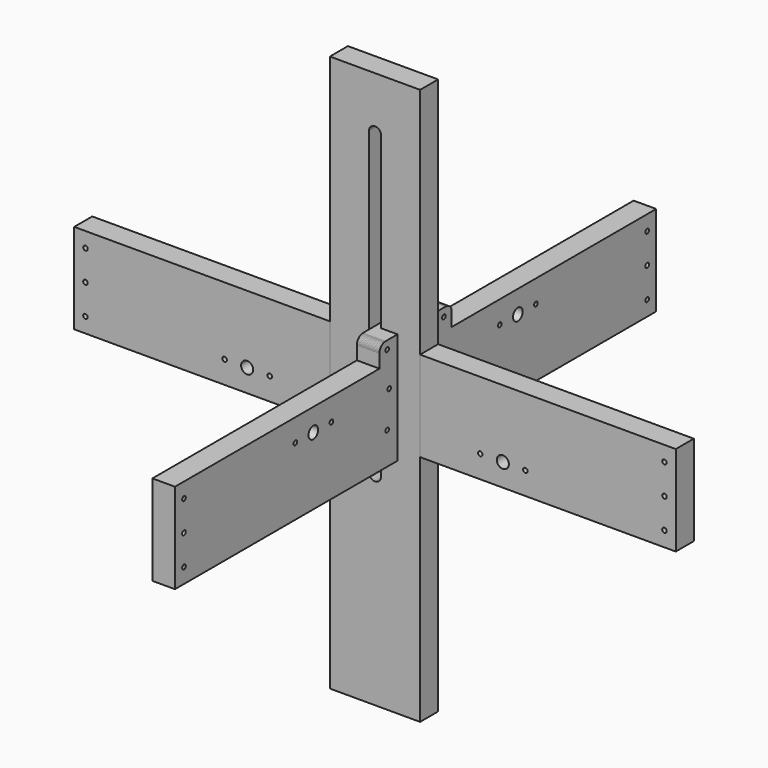
from build123d import *

# Parameters (mm, degrees)
F0_W     = 400
F0_H     = 60
F0_R     = 1.5
F0_R_2   = 4
F0_R_3   = 1.498627
F0_R_4   = 10.950965
F1_DEPTH = 15
F2_R     = 1.5
F2_R_2   = 1.498105
F2_R_3   = 4
F2_R_4   = 12
F3_DEPTH = 15
F4_W     = 60
F4_H     = 370
F5_DEPTH = 15


with BuildPart() as f1:
    # F0 (on Front) → F1 (new body)
    with BuildSketch(Plane.XZ):
        Rectangle(F0_W, F0_H)
        with Locations((-192.5, -20)):
            Circle(F0_R, mode=Mode.SUBTRACT)
        with Locations((-85.000001, -15)):
            Circle(F0_R_2, mode=Mode.SUBTRACT)
        with Locations((-69.998626, -15.00179)):
            Circle(F0_R_3, mode=Mode.SUBTRACT)
        with Locations((-100, -14.999999)):
            Circle(F0_R, mode=Mode.SUBTRACT)
        with Locations((0, -15)):
            Circle(F0_R_4, mode=Mode.SUBTRACT)
        with Locations((85, -15)):
            Circle(F0_R_2, mode=Mode.SUBTRACT)
        with Locations((192.5, -20)):
            Circle(F0_R, mode=Mode.SUBTRACT)
        with Locations((70, -15)):
            Circle(F0_R, mode=Mode.SUBTRACT)
        with Locations((100, -15)):
            Circle(F0_R, mode=Mode.SUBTRACT)
        with Locations((-192.5, 1e-06)):
            Circle(F0_R, mode=Mode.SUBTRACT)
        with Locations((-192.5, 20)):
            Circle(F0_R, mode=Mode.SUBTRACT)
        with Locations((192.5, 1e-06)):
            Circle(F0_R, mode=Mode.SUBTRACT)
        with Locations((192.5, 20)):
            Circle(F0_R, mode=Mode.SUBTRACT)
    extrude(amount=F1_DEPTH)


with BuildPart() as f3:
    # F2 (on Right) → F3 (new body)
    with BuildSketch(Plane.YZ):
        Polygon((-30, 32), (-30, 23), (-200, 23), (-200, -37), (200, -37), (200, 23), (30, 23), (30, 32), (29.957224, 32.652631), (29.829629, 33.294095), (29.619397, 33.913417), (29.330127, 34.5), (28.966766, 35.043807), (28.535534, 35.535533), (28.043807, 35.966766), (27.5, 36.330127), (26.913417, 36.619397), (26.294095, 36.829629), (25.652631, 36.957224), (25, 37), (-25, 37), (-25.652631, 36.957224), (-26.294096, 36.829629), (-26.913418, 36.619397), (-27.5, 36.330127), (-28.043808, 35.966766), (-28.535534, 35.535533), (-28.966767, 35.043807), (-29.330127, 34.5), (-29.619398, 33.913417), (-29.82963, 33.294095), (-29.957225, 32.652631), align=None)
        Polygon((-193.799038, -26.25), (-193.560661, -25.93934), (-193.25, -25.700962), (-192.888229, -25.551112), (-192.5, -25.5), (-192.111772, -25.551112), (-191.75, -25.700962), (-191.43934, -25.93934), (-191.200962, -26.25), (-191.051112, -26.611772), (-191, -27), (-191.051112, -27.388229), (-191.200962, -27.75), (-191.43934, -28.060661), (-191.75, -28.299039), (-192.111772, -28.448889), (-192.5, -28.5), (-192.888229, -28.448889), (-193.25, -28.299039), (-193.560661, -28.060661), (-193.799038, -27.75), (-193.948889, -27.388229), (-194, -27), (-193.948889, -26.611772), align=None, mode=Mode.SUBTRACT)
        with Locations((-192.5, -7)):
            Circle(F2_R, mode=Mode.SUBTRACT)
        Polygon((-24.849038, -16.3), (-24.998889, -15.938229), (-25.05, -15.55), (-24.998889, -15.161772), (-24.849038, -14.8), (-24.610661, -14.48934), (-24.3, -14.250962), (-23.938229, -14.101112), (-23.55, -14.05), (-23.161772, -14.101112), (-22.8, -14.250962), (-22.48934, -14.48934), (-22.250962, -14.8), (-22.101112, -15.161772), (-22.05, -15.55), (-22.101112, -15.938229), (-22.250962, -16.3), (-22.48934, -16.610661), (-22.8, -16.849039), (-23.161772, -16.998889), (-23.55, -17.05), (-23.938229, -16.998889), (-24.3, -16.849039), (-24.610661, -16.610661), align=None, mode=Mode.SUBTRACT)
        Polygon((191.051111, -27.388229), (191, -27), (191.051111, -26.611772), (191.200962, -26.25), (191.439339, -25.93934), (191.75, -25.700962), (192.111771, -25.551112), (192.5, -25.5), (192.888228, -25.551112), (193.25, -25.700962), (193.56066, -25.93934), (193.799038, -26.25), (193.948888, -26.611772), (194, -27), (193.948888, -27.388229), (193.799038, -27.75), (193.56066, -28.060661), (193.25, -28.299039), (192.888228, -28.448889), (192.5, -28.5), (192.111771, -28.448889), (191.75, -28.299039), (191.439339, -28.060661), (191.200962, -27.75), align=None, mode=Mode.SUBTRACT)
        Polygon((-0.75, -12.621273), (-0.388229, -12.471422), (0, -12.420311), (0.388228, -12.471422), (0.75, -12.621273), (1.06066, -12.85965), (1.299038, -13.170311), (1.448888, -13.532082), (1.5, -13.920311), (1.448888, -14.308539), (1.299038, -14.670311), (1.06066, -14.980971), (0.75, -15.219349), (0.388228, -15.369199), (0, -15.420311), (-0.388229, -15.369199), (-0.75, -15.219349), (-1.060661, -14.980971), (-1.299038, -14.670311), (-1.448889, -14.308539), (-1.5, -13.920311), (-1.448889, -13.532082), (-1.299038, -13.170311), (-1.060661, -12.85965), align=None, mode=Mode.SUBTRACT)
        Polygon((23.55, -14.05), (23.938228, -14.101112), (24.3, -14.250962), (24.61066, -14.48934), (24.849038, -14.8), (24.998888, -15.161772), (25.05, -15.55), (24.998888, -15.938229), (24.849038, -16.3), (24.61066, -16.610661), (24.3, -16.849039), (23.938228, -16.998889), (23.55, -17.05), (23.161771, -16.998889), (22.8, -16.849039), (22.489339, -16.610661), (22.250962, -16.3), (22.101111, -15.938229), (22.05, -15.55), (22.101111, -15.161772), (22.250962, -14.8), (22.489339, -14.48934), (22.8, -14.250962), (23.161771, -14.101112), align=None, mode=Mode.SUBTRACT)
        with Locations((192.499351, -6.995073)):
            Circle(F2_R_2, mode=Mode.SUBTRACT)
        Polygon((-191.200962, 12.25), (-191.43934, 11.939339), (-191.75, 11.700961), (-192.111772, 11.551111), (-192.5, 11.5), (-192.888229, 11.551111), (-193.25, 11.700961), (-193.560661, 11.939339), (-193.799038, 12.25), (-193.948889, 12.611771), (-194, 13), (-193.948889, 13.388228), (-193.799038, 13.75), (-193.560661, 14.06066), (-193.25, 14.299038), (-192.888229, 14.448888), (-192.5, 14.5), (-192.111772, 14.448888), (-191.75, 14.299038), (-191.43934, 14.06066), (-191.200962, 13.75), (-191.051112, 13.388228), (-191, 13), (-191.051112, 12.611771), align=None, mode=Mode.SUBTRACT)
        Polygon((-101.448889, 8.388228), (-101.299038, 8.75), (-101.060661, 9.06066), (-100.75, 9.299038), (-100.388229, 9.448888), (-100, 9.5), (-99.611772, 9.448888), (-99.25, 9.299038), (-98.93934, 9.06066), (-98.700962, 8.75), (-98.551112, 8.388228), (-98.5, 8), (-98.551112, 7.611771), (-98.700962, 7.25), (-98.93934, 6.939339), (-99.25, 6.700961), (-99.611772, 6.551111), (-100, 6.5), (-100.388229, 6.551111), (-100.75, 6.700961), (-101.060661, 6.939339), (-101.299038, 7.25), (-101.448889, 7.611771), (-101.5, 8), align=None, mode=Mode.SUBTRACT)
        with Locations((-85.000001, 8)):
            Circle(F2_R_3, mode=Mode.SUBTRACT)
        Polygon((-71.448889, 7.611771), (-71.5, 8), (-71.448889, 8.388228), (-71.299038, 8.75), (-71.060661, 9.06066), (-70.75, 9.299038), (-70.388229, 9.448888), (-70, 9.5), (-69.611772, 9.448888), (-69.25, 9.299038), (-68.93934, 9.06066), (-68.700962, 8.75), (-68.551112, 8.388228), (-68.5, 8), (-68.551112, 7.611771), (-68.700962, 7.25), (-68.93934, 6.939339), (-69.25, 6.700961), (-69.611772, 6.551111), (-70, 6.5), (-70.388229, 6.551111), (-70.75, 6.700961), (-71.060661, 6.939339), (-71.299038, 7.25), align=None, mode=Mode.SUBTRACT)
        Polygon((-23.219349, 8.75), (-22.980971, 9.06066), (-22.670311, 9.299038), (-22.308539, 9.448888), (-21.920311, 9.5), (-21.532082, 9.448888), (-21.170311, 9.299038), (-20.85965, 9.06066), (-20.621272, 8.75), (-20.471422, 8.388228), (-20.420311, 8), (-20.471422, 7.611771), (-20.621272, 7.25), (-20.85965, 6.939339), (-21.170311, 6.700961), (-21.532082, 6.551111), (-21.920311, 6.5), (-22.308539, 6.551111), (-22.670311, 6.700961), (-22.980971, 6.939339), (-23.219349, 7.25), (-23.369199, 7.611771), (-23.420311, 8), (-23.369199, 8.388228), align=None, mode=Mode.SUBTRACT)
        Polygon((-22.05, 31.55), (-22.101112, 31.161771), (-22.250962, 30.8), (-22.48934, 30.489339), (-22.8, 30.250961), (-23.161772, 30.101111), (-23.55, 30.05), (-23.938229, 30.101111), (-24.3, 30.250961), (-24.610661, 30.489339), (-24.849038, 30.8), (-24.998889, 31.161771), (-25.05, 31.55), (-24.998889, 31.938228), (-24.849038, 32.3), (-24.610661, 32.61066), (-24.3, 32.849038), (-23.938229, 32.998888), (-23.55, 33.05), (-23.161772, 32.998888), (-22.8, 32.849038), (-22.48934, 32.61066), (-22.250962, 32.3), (-22.101112, 31.938228), align=None, mode=Mode.SUBTRACT)
        with Locations((0, 7.999999)):
            Circle(F2_R_4, mode=Mode.SUBTRACT)
        Polygon((20.85965, 9.06066), (21.17031, 9.299038), (21.532081, 9.448888), (21.92031, 9.5), (22.308538, 9.448888), (22.67031, 9.299038), (22.98097, 9.06066), (23.219348, 8.75), (23.369199, 8.388228), (23.42031, 8), (23.369199, 7.611771), (23.219348, 7.25), (22.98097, 6.939339), (22.67031, 6.700961), (22.308538, 6.551111), (21.92031, 6.5), (21.532081, 6.551111), (21.17031, 6.700961), (20.85965, 6.939339), (20.621272, 7.25), (20.471421, 7.611771), (20.42031, 8), (20.471421, 8.388228), (20.621272, 8.75), align=None, mode=Mode.SUBTRACT)
        Polygon((70.75, 6.700961), (70.388228, 6.551111), (70, 6.5), (69.611771, 6.551111), (69.25, 6.700961), (68.939339, 6.939339), (68.700962, 7.25), (68.551111, 7.611771), (68.5, 8), (68.551111, 8.388228), (68.700962, 8.75), (68.939339, 9.06066), (69.25, 9.299038), (69.611771, 9.448888), (70, 9.5), (70.388228, 9.448888), (70.75, 9.299038), (71.06066, 9.06066), (71.299038, 8.75), (71.448888, 8.388228), (71.5, 8), (71.448888, 7.611771), (71.299038, 7.25), (71.06066, 6.939339), align=None, mode=Mode.SUBTRACT)
        with Locations((85, 8)):
            Circle(F2_R_3, mode=Mode.SUBTRACT)
        Polygon((101.448888, 8.388228), (101.5, 8), (101.448888, 7.611771), (101.299038, 7.25), (101.06066, 6.939339), (100.75, 6.700961), (100.388228, 6.551111), (100, 6.5), (99.611771, 6.551111), (99.25, 6.700961), (98.939339, 6.939339), (98.700962, 7.25), (98.551111, 7.611771), (98.5, 8), (98.551111, 8.388228), (98.700962, 8.75), (98.939339, 9.06066), (99.25, 9.299038), (99.611771, 9.448888), (100, 9.5), (100.388228, 9.448888), (100.75, 9.299038), (101.06066, 9.06066), (101.299038, 8.75), align=None, mode=Mode.SUBTRACT)
        Polygon((191.75, 14.299038), (192.111771, 14.448888), (192.5, 14.5), (192.888228, 14.448888), (193.25, 14.299038), (193.56066, 14.06066), (193.799038, 13.75), (193.948888, 13.388228), (194, 13), (193.948888, 12.611771), (193.799038, 12.25), (193.56066, 11.939339), (193.25, 11.700961), (192.888228, 11.551111), (192.5, 11.5), (192.111771, 11.551111), (191.75, 11.700961), (191.439339, 11.939339), (191.200962, 12.25), (191.051111, 12.611771), (191, 13), (191.051111, 13.388228), (191.200962, 13.75), (191.439339, 14.06066), align=None, mode=Mode.SUBTRACT)
        Polygon((-1.060661, 28.85965), (-1.299038, 29.17031), (-1.448889, 29.532081), (-1.5, 29.92031), (-1.448889, 30.308538), (-1.299038, 30.67031), (-1.060661, 30.98097), (-0.75, 31.219348), (-0.388229, 31.369199), (0, 31.42031), (0.388228, 31.369199), (0.75, 31.219348), (1.06066, 30.98097), (1.299038, 30.67031), (1.448888, 30.308538), (1.5, 29.92031), (1.448888, 29.532081), (1.299038, 29.17031), (1.06066, 28.85965), (0.75, 28.621272), (0.388228, 28.471421), (0, 28.42031), (-0.388229, 28.471421), (-0.75, 28.621272), align=None, mode=Mode.SUBTRACT)
        Polygon((24.61066, 30.489339), (24.3, 30.250961), (23.938228, 30.101111), (23.55, 30.05), (23.161771, 30.101111), (22.8, 30.250961), (22.489339, 30.489339), (22.250962, 30.8), (22.101111, 31.161771), (22.05, 31.55), (22.101111, 31.938228), (22.250962, 32.3), (22.489339, 32.61066), (22.8, 32.849038), (23.161771, 32.998888), (23.55, 33.05), (23.938228, 32.998888), (24.3, 32.849038), (24.61066, 32.61066), (24.849038, 32.3), (24.998888, 31.938228), (25.05, 31.55), (24.998888, 31.161771), (24.849038, 30.8), align=None, mode=Mode.SUBTRACT)
    extrude(amount=F3_DEPTH)


with BuildPart() as f5:
    # F4 (on Front) → F5 (new body)
    with BuildSketch(Plane.XZ):
        Rectangle(F4_W, F4_H)
        Polygon((4, -50), (3.863703, -51.035276), (3.464102, -52), (2.828427, -52.828427), (2, -53.464101), (1.035276, -53.863703), (0, -54), (-1.035276, -53.863703), (-2, -53.464101), (-2.828427, -52.828427), (-3.464102, -52), (-3.863703, -51.035276), (-4, -50), (-4, 150), (-3.863703, 151.035276), (-3.464102, 152), (-2.828427, 152.828427), (-2, 153.464102), (-1.035276, 153.863703), (0, 154), (1.035276, 153.863703), (2, 153.464102), (2.828427, 152.828427), (3.464102, 152), (3.863703, 151.035276), (4, 150), align=None, mode=Mode.SUBTRACT)
    extrude(amount=F5_DEPTH)


solid = Compound([f1.part, f3.part, f5.part])
